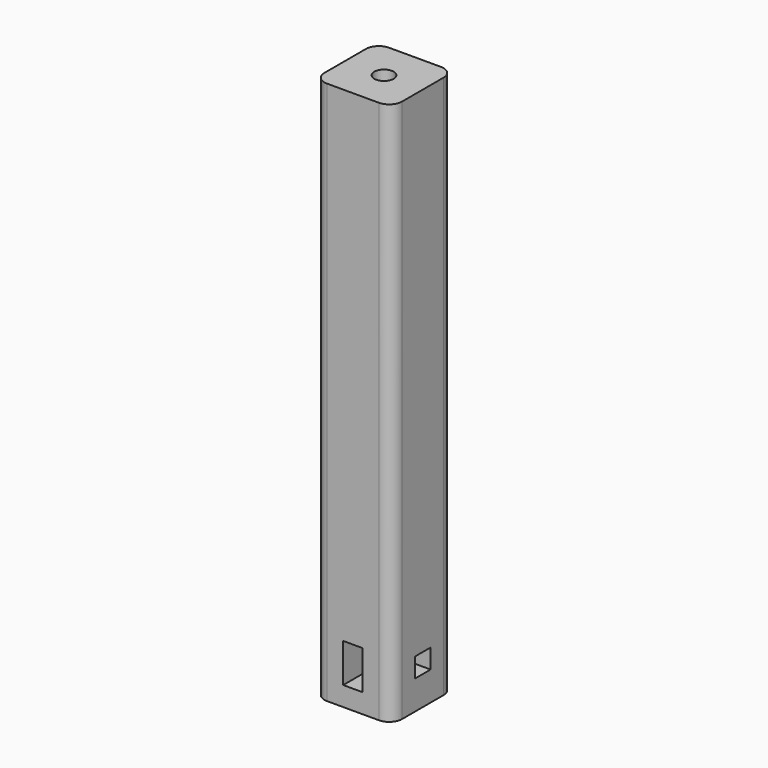
from build123d import *

# Parameters (mm, degrees)
F0_W     = 76.2
F0_H     = 76.2
F1_DEPTH = 533.4
F2_R     = 9.525
F3_DEPTH = 101.6
F4_W     = 19.05
F4_H     = 38.1
F5_DEPTH = 76.2
F6_W     = 19.05
F6_H     = 19.05
F7_DEPTH = 76.201
F8_R     = 12.7


with BuildPart() as f1:
    # F0 (on Top) → F1 (new body)
    with BuildSketch(Plane.XY):
        Rectangle(F0_W, F0_H)
    extrude(amount=F1_DEPTH)

    # F2 (on face) → F3 (cut)
    with BuildSketch(Plane.XY.offset(533.4)):
        Circle(F2_R)
    extrude(amount=-F3_DEPTH, mode=Mode.SUBTRACT)

    # F4 (on face) → F5 (cut, through all)
    with BuildSketch(Plane.XZ.offset(38.1)):
        with Locations((0, 38.1)):
            Rectangle(F4_W, F4_H)
    extrude(amount=-F5_DEPTH, mode=Mode.SUBTRACT)

    # F6 (on face) → F7 (cut, through all)
    with BuildSketch(Plane.YZ.offset(38.1)):
        with Locations((0, 38.1)):
            Rectangle(F6_W, F6_H)
    extrude(amount=-F7_DEPTH, mode=Mode.SUBTRACT)

    # F8
    f8_edges = [f1.edges().sort_by_distance(p)[0] for p in [
        (-38.1, -38.1, 266.7),
        (38.1, -38.1, 266.7),
        (38.1, 38.1, 266.7),
        (-38.1, 38.1, 266.7),
    ]]
    fillet(f8_edges, radius=F8_R)


solid = f1.part
